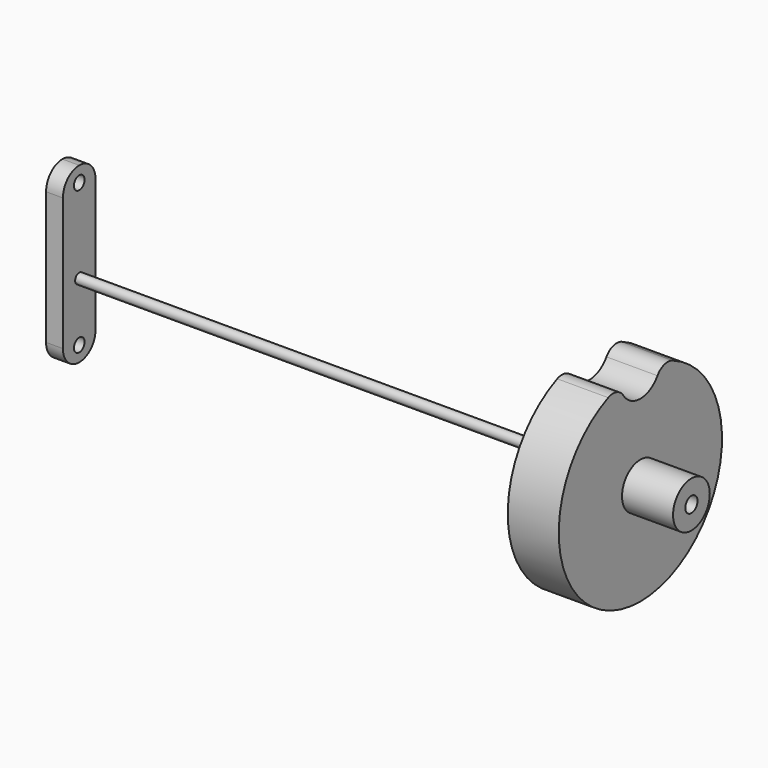
from build123d import *

# Parameters (mm, degrees)
F0_R     = 1
F1_DEPTH = 100
F2_R     = 1.3
F3_DEPTH = 3.3
F4_R     = 1.5
F5_DEPTH = 10
F6_R     = 4.5
F6_R_2   = 1.5
F7_DEPTH = 10


with BuildPart() as f1:
    # F0 (on Right) → F1 (new body)
    with BuildSketch(Plane.YZ):
        Circle(F0_R)
    extrude(amount=F1_DEPTH)

    # F2 (on Right) → F3 (join)
    with BuildSketch(Plane.YZ):
        with BuildLine():
            ThreePointArc((0, -14.5), (2.828427, -13.328427), (4, -10.5))
            Line((4, -10.5), (4, 15.5))
            ThreePointArc((4, 15.5), (2.828427, 18.328427), (0, 19.5))
            ThreePointArc((0, 19.5), (-2.828427, 18.328427), (-4, 15.5))
            Line((-4, 15.5), (-4, -10.5))
            ThreePointArc((-4, -10.5), (-2.828427, -13.328427), (0, -14.5))
        make_face()
        with Locations((0, -11.5)):
            Circle(F2_R, mode=Mode.SUBTRACT)
        with Locations((0, 16.5)):
            Circle(F2_R, mode=Mode.SUBTRACT)
    extrude(amount=-F3_DEPTH)


with BuildPart() as f5:
    # F4 (on face) → F5 (new body)
    with BuildSketch(Plane.YZ.offset(100)):
        with BuildLine():
            ThreePointArc((-4.186071, 17.265625), (-5.829503, 18.496621), (-7.879664, 18.382353))
            ThreePointArc((-7.879664, 18.382353), (0, -20), (7.879664, 18.382353))
            ThreePointArc((7.879664, 18.382353), (5.829503, 18.496621), (4.186071, 17.265625))
            ThreePointArc((4.186071, 17.265625), (0, 15), (-4.186071, 17.265625))
        make_face()
        Circle(F4_R, mode=Mode.SUBTRACT)
    extrude(amount=F5_DEPTH)

    # F6 (on face) → F7 (join)
    with BuildSketch(Plane.YZ.offset(110)):
        Circle(F6_R)
        Circle(F6_R_2, mode=Mode.SUBTRACT)
    extrude(amount=F7_DEPTH)


solid = Compound([f1.part, f5.part])
